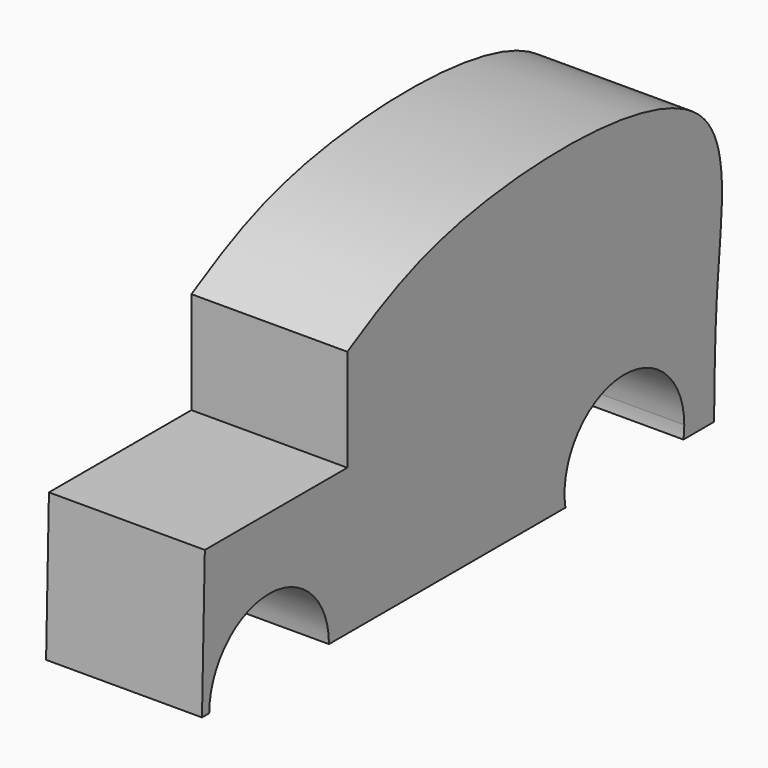
from build123d import *

# Parameters (mm, degrees)
F1_DEPTH = 25


with BuildPart() as f1:
    # F0 (on Right) → F1 (new body)
    with BuildSketch(Plane.YZ):
        with BuildLine():
            Line((-52.5449592137, 23.4167748248), (-53.1160976106, 0))
            Line((-53.1160976106, 0), (-51.6644665909, 0))
            ThreePointArc((-51.6644665909, 0), (-39.6644665909, 12), (-27.6644665909, 0))
            Line((-27.6644665909, 0), (19.7233738429, 0))
            ThreePointArc((19.7233738429, 0), (30.5520182858, 13.9579662735), (43.5555334091, 2))
            ThreePointArc((43.5555334091, 2), (43.5134996826, 0.9964848766), (43.3876929753, 0))
            Line((43.3876929753, 0), (49.5239698459, 0))
            add(Edge.make_bspline(
                [(-23.9879150499, 39.7894801698), (-17.5269069022, 43.4159746638), (-2.3438373307, 51.938068576), (54.5380665016, 52.1120860159), (49.8148991009, 21.1013181636), (49.6203009611, 6.9869683972), (49.5239698459, 0)],
                knots=[0, 0, 0, 0, 0.2372939293, 0.5576297313, 0.781015269, 1, 1, 1, 1], degree=3))
            Line((-23.9879150499, 39.7894801698), (-23.9879150499, 23.4167748248))
            Line((-23.9879150499, 23.4167748248), (-52.5449592137, 23.4167748248))
        make_face()
    extrude(amount=F1_DEPTH)


solid = f1.part
